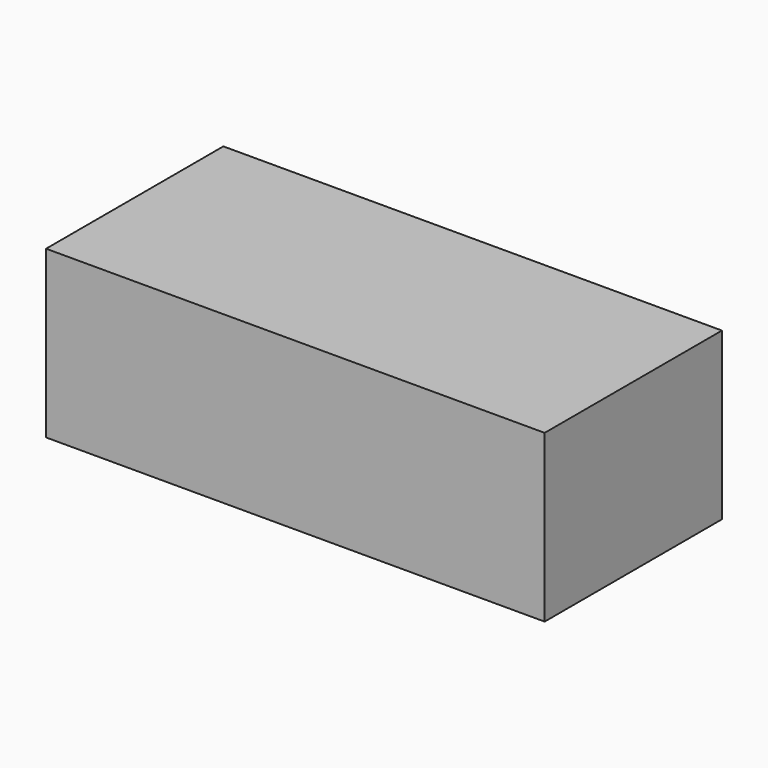
from build123d import *

# Parameters (mm, degrees)
F0_W     = 22.86
F0_H     = 10.16
F1_DEPTH = 7.62
F2_R     = 0.9906
F3_DEPTH = 3.81


with BuildPart() as f1:
    # F0 (on Top) → F1 (new body)
    with BuildSketch(Plane.XY):
        with Locations((-28.31313, -5.08)):
            Rectangle(F0_W, F0_H)
    extrude(amount=F1_DEPTH)

    # F2 (on Front) → F3 (cut, symmetric)
    with BuildSketch(Plane.XZ):
        with Locations((-28.961957, 4.375547)):
            Circle(F2_R)
    extrude(amount=F3_DEPTH, both=True, mode=Mode.SUBTRACT)


solid = f1.part
